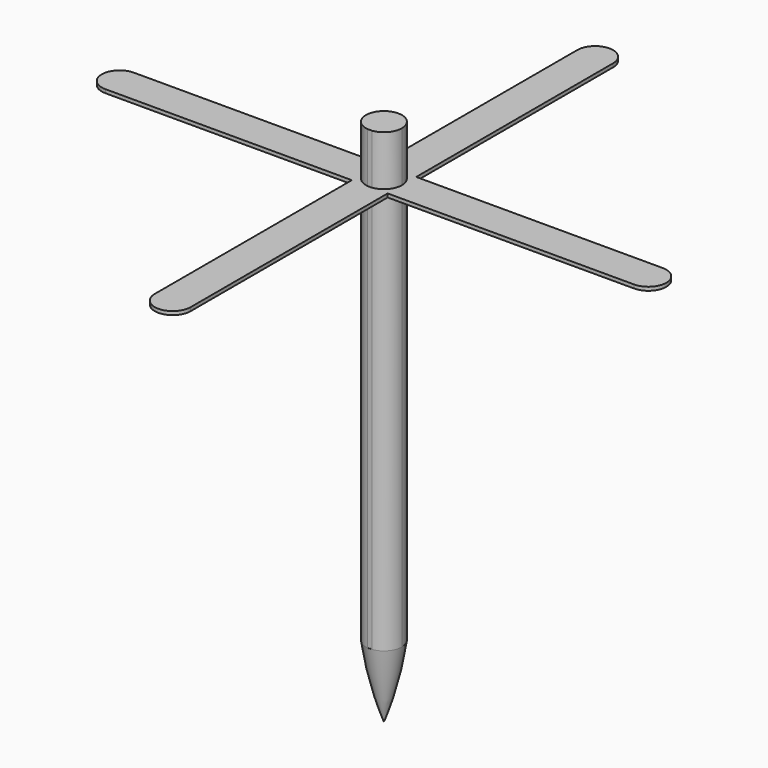
from build123d import *

# Parameters (mm, degrees)
F1_DEPTH      = 30
F1_DEPTH_BACK = 225
F2_DEPTH      = 2


with BuildPart() as f1:
    # F0 (on Top) → F1 (new body, two sides)
    with BuildSketch(Plane.XY) as f1_sk:
        with BuildLine():
            Line((0, -9.9217584357), (0, 10.0142153224))
            ThreePointArc((0, 10.0142153224), (-7.0811195627, 7.0811195627), (-10.0142153224, 0))
            ThreePointArc((-10.0142153224, 0), (-7.5458705502, -6.5836423174), (-1.3576516741, -9.9217584357))
            Line((-1.3576516741, -9.9217584357), (0, -9.9217584357))
        make_face()
        with BuildLine():
            ThreePointArc((1.3576516741, -9.9217584357), (7.5458705502, -6.5836423174), (10.0142153224, 0))
            ThreePointArc((10.0142153224, 0), (7.0811195627, 7.0811195627), (0, 10.0142153224))
            Line((0, 10.0142153224), (0, -9.9217584357))
            Line((0, -9.9217584357), (1.3576516741, -9.9217584357))
        make_face()
    extrude(amount=F1_DEPTH)
    extrude(f1_sk.sketch, amount=-F1_DEPTH_BACK)

    # F0 (on Top) → F2 (join)
    with BuildSketch(Plane.XY):
        with BuildLine():
            Line((10.0142153224, -9.9217584357), (1.3576516741, -9.9217584357))
            ThreePointArc((1.3576516741, -9.9217584357), (0, -10.0142153224), (-1.3576516741, -9.9217584357))
            Line((-1.3576516741, -9.9217584357), (-10.0142153224, -9.9217584357))
            Line((-10.0142153224, -9.9217584357), (-10.0142153224, -147.4426090717))
            Line((-10.0142153224, -147.4426090717), (10.0142153224, -147.4426090717))
            Line((10.0142153224, -147.4426090717), (10.0142153224, -9.9217584357))
        make_face()
        with BuildLine():
            ThreePointArc((-10.0142153224, -147.4426090717), (0, -157.4568243942), (10.0142153224, -147.4426090717))
            Line((10.0142153224, -147.4426090717), (-10.0142153224, -147.4426090717))
        make_face()
        with BuildLine():
            ThreePointArc((147.6441994309, -9.9217584357), (157.61218631, 0.0462284434), (147.6441994309, 10.0142153224))
            Line((147.6441994309, 10.0142153224), (147.6441994309, -9.9217584357))
        make_face()
        Polygon((10.0142153224, 10.0142153224), (10.0142153224, 0), (10.0142153224, -9.9217584357), (147.6441994309, -9.9217584357), (147.6441994309, 10.0142153224), align=None)
        Polygon((-10.0142153224, -9.9217584357), (-10.0142153224, 0), (-10.0142153224, 10.0142153224), (-147.6441994309, 10.0142153224), (-147.6441994309, -9.9217584357), align=None)
        Polygon((-10.0142153224, 10.0142153224), (0, 10.0142153224), (10.0142153224, 10.0142153224), (10.0142153224, 147.4426090717), (-10.0142153224, 147.4426090717), align=None)
        with BuildLine():
            Line((-10.0142153224, 147.4426090717), (10.0142153224, 147.4426090717))
            ThreePointArc((10.0142153224, 147.4426090717), (0, 157.4568243942), (-10.0142153224, 147.4426090717))
        make_face()
        with BuildLine():
            Line((-147.6441994309, -9.9217584357), (-147.6441994309, 10.0142153224))
            ThreePointArc((-147.6441994309, 10.0142153224), (-157.61218631, 0.0462284434), (-147.6441994309, -9.9217584357))
        make_face()
        with BuildLine():
            ThreePointArc((0, 10.0142153224), (7.0811195627, 7.0811195627), (10.0142153224, 0))
            Line((10.0142153224, 0), (10.0142153224, 10.0142153224))
            Line((10.0142153224, 10.0142153224), (0, 10.0142153224))
        make_face()
        with BuildLine():
            ThreePointArc((-10.0142153224, 0), (-7.0811195627, 7.0811195627), (0, 10.0142153224))
            Line((0, 10.0142153224), (-10.0142153224, 10.0142153224))
            Line((-10.0142153224, 10.0142153224), (-10.0142153224, 0))
        make_face()
        with BuildLine():
            ThreePointArc((-1.3576516741, -9.9217584357), (-7.5458705502, -6.5836423174), (-10.0142153224, 0))
            Line((-10.0142153224, 0), (-10.0142153224, -9.9217584357))
            Line((-10.0142153224, -9.9217584357), (-1.3576516741, -9.9217584357))
        make_face()
        with BuildLine():
            Line((10.0142153224, -9.9217584357), (10.0142153224, 0))
            ThreePointArc((10.0142153224, 0), (7.5458705502, -6.5836423174), (1.3576516741, -9.9217584357))
            Line((1.3576516741, -9.9217584357), (10.0142153224, -9.9217584357))
        make_face()
    extrude(amount=F2_DEPTH)

    # F3 (on Front) → F4 (revolve)
    with BuildSketch(Plane.XZ):
        Polygon((0, -265.1076316833), (0, -224.9582111835), (-10.0062908605, -224.9979376793), align=None)
        with BuildLine():
            ThreePointArc((-10.0062908605, -224.9979376793), (-6.1254784251, -245.3327766052), (0, -265.1076316833))
            Line((0, -265.1076316833), (-10.0062908605, -224.9979376793))
        make_face()
    revolve(axis=Axis((0, 0, -245.0329214334), (0, 0, -1)))


solid = f1.part
